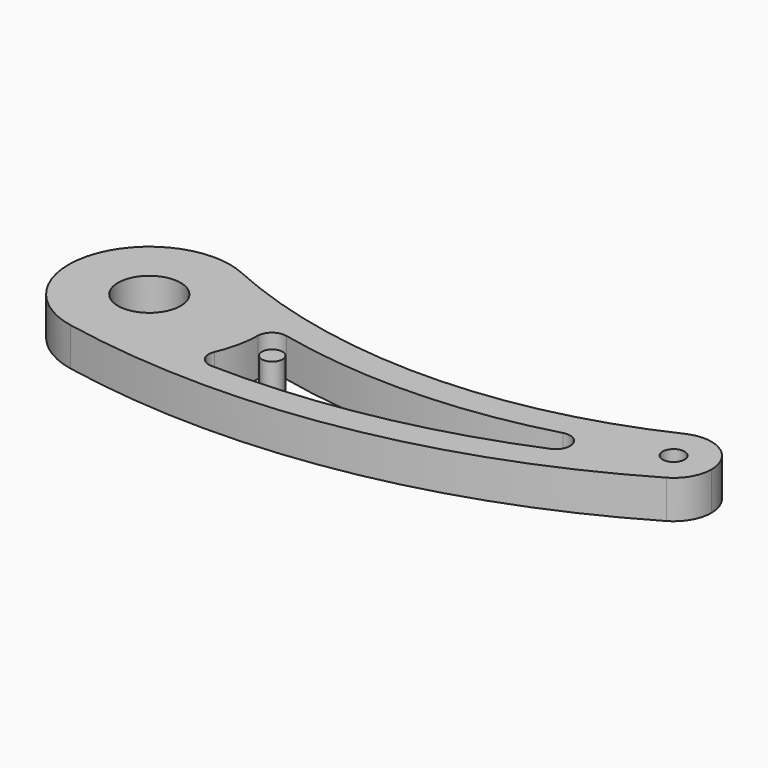
from build123d import *

# Parameters (mm, degrees)
F0_R     = 3.44
F0_R_2   = 3.25
F1_DEPTH = 12


with BuildPart() as f1:
    # F0 (on Top) → F1 (new body)
    with BuildSketch(Plane.XY):
        with BuildLine():
            ThreePointArc((-143.459999, -2.221926), (-148.527315, -0.561715), (-153.83, 0))
            ThreePointArc((-153.83, 0), (-171.726873, -7.413127), (-179.14, -25.31))
            ThreePointArc((-179.14, -25.31), (-173.368088, -41.399103), (-158.684905, -50.150008))
            ThreePointArc((-158.684905, -50.150008), (-73.775871, -51.179473), (6.001218, -22.089613))
            ThreePointArc((6.001218, -22.089613), (10.2916, -17.754283), (11.86, -11.86))
            ThreePointArc((11.86, -11.86), (8.386286, -3.473714), (0, 0))
            ThreePointArc((0, 0), (-2.577022, -0.283361), (-5.030902, -1.119906))
            ThreePointArc((-5.030902, -1.119906), (-74.125093, -16.789548), (-143.459999, -2.221926))
        make_face()
        with BuildLine():
            ThreePointArc((-119.33422, -25.84958), (-117.618476, -22.384287), (-113.847322, -21.529635))
            ThreePointArc((-113.847322, -21.529635), (-71.135906, -25.741709), (-28.683764, -19.431224))
            ThreePointArc((-28.683764, -19.431224), (-23.229258, -22.294427), (-25.743289, -27.918413))
            ThreePointArc((-25.743289, -27.918413), (-71.057758, -41.54536), (-118.212822, -45.481702))
            ThreePointArc((-118.212822, -45.481702), (-121.910998, -43.40368), (-122.238376, -39.174318))
            ThreePointArc((-122.238376, -39.174318), (-120.121345, -32.656877), (-119.33422, -25.84958))
        make_face(mode=Mode.SUBTRACT)
        with BuildLine():
            ThreePointArc((-143.99, -25.31), (-153.83, -35.15), (-163.67, -25.31))
            ThreePointArc((-163.67, -25.31), (-153.83, -15.47), (-143.99, -25.31))
        make_face(mode=Mode.SUBTRACT)
        with Locations((0, -11.86)):
            Circle(F0_R, mode=Mode.SUBTRACT)
        with Locations((-110, -31.86)):
            Circle(F0_R_2)
    extrude(amount=F1_DEPTH)


solid = f1.part
